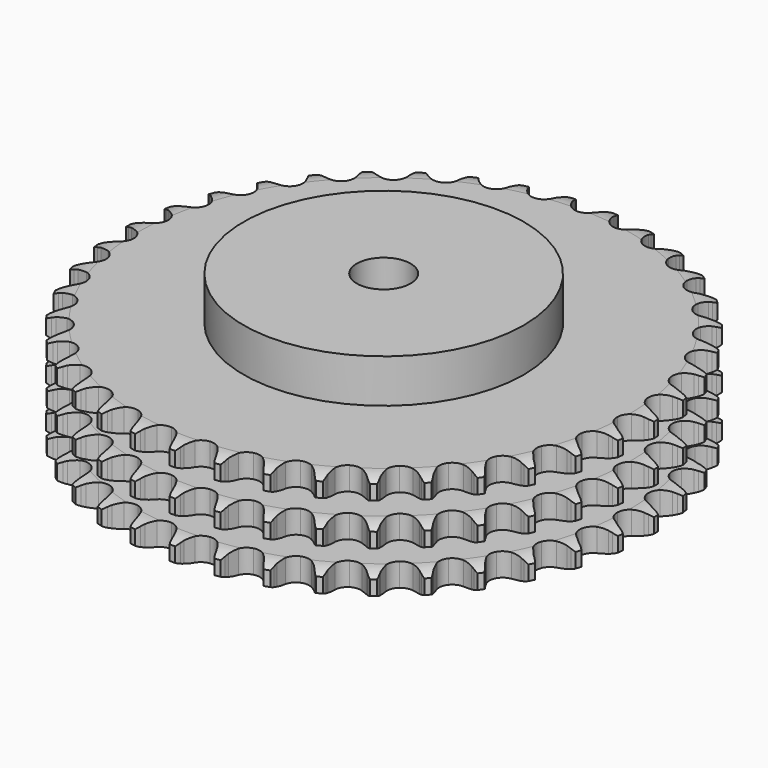
from build123d import *

# Parameters (mm, degrees)
PAD_DEPTH         = 49.8
SKETCH001_R       = 65
PAD001_DEPTH      = 70
SKETCH002_R       = 12.5
POCKET_DEPTH      = 0.001
POCKET_DEPTH_BACK = 70.001


with BuildPart() as part:
    # Sprocket → Pad (new body)
    with BuildSketch(Plane.XY):
        with BuildLine():
            ThreePointArc((-10.012439, 124.026308), (-8.619754, 122.325503), (-7.64164, 120.35685))
            Line((-7.64164, 120.35685), (-7.053101, 118.737597))
            ThreePointArc((-7.053101, 118.737597), (-6.12318, 116.660231), (-4.903721, 114.738481))
            ThreePointArc((-4.903721, 114.738481), (-2.745245, 112.921123), (0, 112.268866))
            ThreePointArc((0, 112.268866), (2.745245, 112.921123), (4.903721, 114.738481))
            ThreePointArc((4.903721, 114.738481), (6.12318, 116.660231), (7.053101, 118.737597))
            Line((7.053101, 118.737597), (7.64164, 120.35685))
            ThreePointArc((7.64164, 120.35685), (8.619754, 122.325503), (10.012439, 124.026308))
            ThreePointArc((10.012439, 124.026308), (11.11426, 122.124126), (11.763914, 120.024066))
            Line((11.763914, 120.024066), (12.085085, 118.331373))
            ThreePointArc((12.085085, 118.331373), (12.66973, 116.131739), (13.565127, 114.03926))
            ThreePointArc((13.565127, 114.03926), (15.404127, 111.899192), (18.009193, 110.815013))
            ThreePointArc((18.009193, 110.815013), (20.823517, 111.018456), (23.245566, 112.466036))
            Line((23.245566, 112.466036), (26.008615, 116.06858))
            ThreePointArc((26.008615, 116.06858), (26.40838, 116.832014), (26.849279, 117.572455))
            ThreePointArc((26.849279, 117.572455), (28.130521, 119.358715), (29.777999, 120.814091))
            ThreePointArc((29.777999, 120.814091), (30.560421, 118.759798), (30.864788, 116.582721))
            Line((30.864788, 116.582721), (30.910274, 114.860429))
            ThreePointArc((30.910274, 114.860429), (31.134502, 112.595496), (31.682646, 110.386482))
            ThreePointArc((31.682646, 110.386482), (33.15454, 107.979131), (35.551956, 106.49111))
            ThreePointArc((35.551956, 106.49111), (38.362471, 106.240469), (40.985363, 107.280779))
            Line((40.985363, 107.280779), (44.29052, 110.393447))
            ThreePointArc((44.29052, 110.393447), (44.807571, 111.082868), (45.361536, 111.742995))
            ThreePointArc((45.361536, 111.742995), (46.912723, 113.300598), (48.772325, 114.472854))
            ThreePointArc((48.772325, 114.472854), (49.215083, 112.319654), (49.166281, 110.121945))
            Line((49.166281, 110.121945), (48.934902, 108.41466))
            ThreePointArc((48.934902, 108.41466), (48.792906, 106.143088), (48.979601, 103.874752))
            ThreePointArc((48.979601, 103.874752), (50.046269, 101.262468), (52.173943, 99.409144))
            ThreePointArc((52.173943, 99.409144), (54.907856, 98.71091), (57.663661, 99.317007))
            Line((57.663661, 99.317007), (61.425323, 101.859182))
            ThreePointArc((61.425323, 101.859182), (62.04627, 102.456734), (62.698953, 103.019451))
            ThreePointArc((62.698953, 103.019451), (64.479909, 104.308055), (66.503473, 105.166829))
            ThreePointArc((66.503473, 105.166829), (66.5951, 102.970489), (66.194393, 100.809069))
            Line((66.194393, 100.809069), (65.692143, 99.161008))
            ThreePointArc((65.692143, 99.161008), (65.187599, 96.941631), (65.00801, 94.672721))
            ThreePointArc((65.00801, 94.672721), (65.641825, 91.923159), (67.444653, 89.752532))
            ThreePointArc((67.444653, 89.752532), (70.031157, 88.62479), (72.8485, 88.780976))
            Line((72.8485, 88.780976), (76.969243, 90.686817))
            ThreePointArc((76.969243, 90.686817), (77.678003, 91.177025), (78.4125, 91.627757))
            ThreePointArc((78.4125, 91.627757), (80.3771, 92.613988), (82.512216, 93.137039))
            ThreePointArc((82.512216, 93.137039), (82.250339, 90.954443), (81.508105, 88.88529))
            Line((81.508105, 88.88529), (80.747991, 87.339139))
            ThreePointArc((80.747991, 87.339139), (79.893968, 85.229436), (79.352746, 83.018716))
            ThreePointArc((79.352746, 83.018716), (79.537292, 80.203089), (80.968581, 77.771377))
            ThreePointArc((80.968581, 77.771377), (83.340688, 76.243334), (86.146601, 75.945564))
            Line((86.146601, 75.945564), (90.5197, 77.165712))
            ThreePointArc((90.5197, 77.165712), (91.297917, 77.535878), (92.095205, 77.862952))
            ThreePointArc((92.095205, 77.862952), (94.192566, 78.521268), (96.383937, 78.695049))
            ThreePointArc((96.383937, 78.695049), (95.775337, 76.582725), (94.710799, 74.65943))
            Line((94.710799, 74.65943), (93.712509, 73.255231))
            ThreePointArc((93.712509, 73.255231), (92.531125, 71.309843), (91.642288, 69.21457))
            ThreePointArc((91.642288, 69.21457), (91.372785, 66.405802), (92.395465, 63.775985))
            ThreePointArc((92.395465, 63.775985), (94.491739, 61.887217), (97.21355, 61.143203))
            Line((97.21355, 61.143203), (101.725744, 61.646055))
            ThreePointArc((101.725744, 61.646055), (102.553263, 61.886593), (103.392692, 62.081537))
            ThreePointArc((103.392692, 62.081537), (105.568494, 62.394888), (107.759364, 62.214898))
            ThreePointArc((107.759364, 62.214898), (106.819805, 60.227554), (105.460534, 58.499929))
            Line((105.460534, 58.499929), (104.249922, 57.274051))
            ThreePointArc((104.249922, 57.274051), (102.771775, 55.543363), (101.558342, 53.617803))
            ThreePointArc((101.558342, 53.617803), (100.841771, 50.888638), (101.429356, 48.128828))
            ThreePointArc((101.429356, 48.128828), (103.195504, 45.928253), (105.76272, 44.757264))
            Line((105.76272, 44.757264), (110.297145, 44.529798))
            ThreePointArc((110.297145, 44.529798), (111.152532, 44.634478), (112.012362, 44.692243))
            ThreePointArc((112.012362, 44.692243), (114.210254, 44.652513), (116.34388, 44.123413))
            ThreePointArc((116.34388, 44.123413), (115.097695, 42.312521), (113.478897, 40.825311))
            Line((113.478897, 40.825311), (112.087317, 39.809504))
            ThreePointArc((112.087317, 39.809504), (110.350689, 38.338339), (108.844088, 36.632362))
            ThreePointArc((108.844088, 36.632362), (107.699009, 34.053486), (107.836279, 31.235159))
            ThreePointArc((107.836279, 31.235159), (109.226559, 28.779771), (111.57269, 27.212136))
            Line((111.57269, 27.212136), (116.011908, 26.260242))
            ThreePointArc((116.011908, 26.260242), (116.87301, 26.226353), (117.730972, 26.145444))
            ThreePointArc((117.730972, 26.145444), (119.894028, 25.753661), (121.91515, 24.889156))
            ThreePointArc((121.91515, 24.889156), (120.394616, 23.301617), (118.558215, 22.093339))
            Line((118.558215, 22.093339), (117.021709, 21.313911))
            ThreePointArc((117.021709, 21.313911), (115.071579, 20.140372), (113.31083, 18.698163))
            ThreePointArc((113.31083, 18.698163), (111.766898, 16.336367), (111.450299, 13.532516))
            ThreePointArc((111.450299, 13.532516), (112.428704, 10.885908), (114.492987, 8.962228))
            Line((114.492987, 8.962228), (118.722024, 7.31056))
            ThreePointArc((118.722024, 7.31056), (119.566538, 7.138979), (120.400411, 6.921491))
            ThreePointArc((120.400411, 6.921491), (122.472609, 6.187804), (124.328882, 5.010283))
            ThreePointArc((124.328882, 5.010283), (122.57338, 3.687212), (120.566938, 2.789161))
            Line((120.566938, 2.789161), (118.9253, 2.266299))
            ThreePointArc((118.9253, 2.266299), (116.812175, 1.42078), (114.842881, 0.279692))
            ThreePointArc((114.842881, 0.279692), (112.940084, -1.803856), (112.177816, -4.520611))
            ThreePointArc((112.177816, -4.520611), (112.719004, -7.289894), (114.447975, -9.519797))
            Line((114.447975, -9.519797), (118.357301, -11.828461))
            ThreePointArc((118.357301, -11.828461), (119.163356, -12.13329), (119.951542, -12.481724))
            ThreePointArc((119.951542, -12.481724), (121.879215, -13.538315), (123.522562, -14.998354))
            ThreePointArc((123.522562, -14.998354), (121.577557, -16.022689), (119.453041, -16.587255))
            Line((119.453041, -16.587255), (117.748789, -16.840008))
            ThreePointArc((117.748789, -16.840008), (115.527397, -17.335609), (113.400562, -18.146024))
            ThreePointArc((113.400562, -18.146024), (111.18818, -19.89736), (109.999985, -22.456658))
            ThreePointArc((109.999985, -22.456658), (110.089941, -25.276891), (111.438821, -27.755265))
            Line((111.438821, -27.755265), (114.927186, -30.661132))
            ThreePointArc((114.927186, -30.661132), (115.673905, -31.091314), (116.395992, -31.56167))
            ThreePointArc((116.395992, -31.56167), (118.129213, -32.913798), (119.517072, -34.618542))
            ThreePointArc((119.517072, -34.618542), (117.43294, -35.317611), (115.245372, -35.53407))
            Line((115.245372, -35.53407), (113.522646, -35.510169))
            ThreePointArc((113.522646, -35.510169), (111.25052, -35.643015), (109.021227, -36.101767))
            ThreePointArc((109.021227, -36.101767), (106.556561, -37.475533), (104.973213, -39.811088))
            ThreePointArc((104.973213, -39.811088), (104.609607, -42.609231), (105.54346, -45.271885))
            Line((105.54346, -45.271885), (108.520518, -48.699696))
            ThreePointArc((108.520518, -48.699696), (109.188561, -49.244089), (109.825847, -49.824185))
            ThreePointArc((109.825847, -49.824185), (111.319726, -51.436832), (112.416152, -53.342128))
            ThreePointArc((112.416152, -53.342128), (110.246871, -53.697826), (108.052909, -53.560571))
            Line((108.052909, -53.560571), (106.356326, -53.260634))
            ThreePointArc((106.356326, -53.260634), (104.092314, -53.027286), (101.8183, -53.122493))
            ThreePointArc((101.8183, -53.122493), (99.165184, -54.083109), (97.22769, -56.134433))
            ThreePointArc((97.22769, -56.134433), (96.419939, -58.838014), (96.914579, -61.615988))
            Line((96.914579, -61.615988), (99.303225, -65.476963))
            ThreePointArc((99.303225, -65.476963), (99.87529, -66.121467), (100.41127, -66.796279))
            ThreePointArc((100.41127, -66.796279), (101.627116, -68.627678), (102.403714, -70.68418))
            ThreePointArc((102.403714, -70.68418), (100.205466, -70.687295), (98.061933, -70.199881))
            Line((98.061933, -70.199881), (96.435433, -69.631678))
            ThreePointArc((96.435433, -69.631678), (94.238171, -69.038178), (91.978333, -68.767375))
            ThreePointArc((91.978333, -68.767375), (89.20548, -69.289962), (86.96402, -71.003925))
            ThreePointArc((86.96402, -71.003925), (85.733045, -73.542923), (85.775661, -76.364269))
            Line((85.775661, -76.364269), (87.514031, -80.558411))
            ThreePointArc((87.514031, -80.558411), (87.975302, -81.286335), (88.396093, -82.038385))
            ThreePointArc((88.396093, -82.038385), (89.302418, -84.041103), (89.739073, -86.195549))
            ThreePointArc((89.739073, -86.195549), (87.568792, -85.846), (85.531204, -85.021051))
            Line((85.531204, -85.021051), (84.016913, -84.199297))
            ThreePointArc((84.016913, -84.199297), (81.943309, -83.261017), (79.756175, -82.631218))
            ThreePointArc((79.756175, -82.631218), (76.935401, -82.70224), (74.448029, -84.034453))
            ThreePointArc((74.448029, -84.034453), (72.82571, -86.343109), (72.415198, -89.134755))
            Line((72.415198, -89.134755), (73.458269, -93.553438))
            ThreePointArc((73.458269, -93.553438), (73.7968, -94.345929), (74.091505, -95.15574))
            ThreePointArc((74.091505, -95.15574), (74.664834, -97.277908), (74.750237, -99.474499))
            ThreePointArc((74.750237, -99.474499), (72.664132, -98.781339), (70.785261, -97.640221))
            Line((70.785261, -97.640221), (69.422399, -96.586199))
            ThreePointArc((69.422399, -96.586199), (67.526158, -95.32744), (65.468374, -94.354955))
            ThreePointArc((65.468374, -94.354955), (62.672735, -93.972574), (60.003872, -94.888532))
            ThreePointArc((60.003872, -94.888532), (58.032227, -96.907053), (57.17922, -99.596698))
            Line((57.17922, -99.596698), (57.499977, -104.125481))
            ThreePointArc((57.499977, -104.125481), (57.706999, -104.962013), (57.867985, -105.808612))
            ThreePointArc((57.867985, -105.808612), (58.093471, -107.995267), (57.825409, -110.177112))
            ThreePointArc((57.825409, -110.177112), (55.87751, -109.158293), (54.206018, -107.73056))
            Line((54.206018, -107.73056), (53.029881, -106.471569))
            ThreePointArc((53.029881, -106.471569), (51.360115, -104.924932), (49.484976, -103.634949))
            ThreePointArc((49.484976, -103.634949), (46.786879, -102.809067), (44.005647, -103.285049))
            ThreePointArc((44.005647, -103.285049), (41.735741, -104.961156), (40.462331, -107.479139))
            Line((40.462331, -107.479139), (40.052466, -112.000728))
            ThreePointArc((40.052466, -112.000728), (40.122618, -112.859637), (40.145715, -113.721095))
            ThreePointArc((40.145715, -113.721095), (40.017516, -115.915604), (39.402934, -118.026195))
            ThreePointArc((39.402934, -118.026195), (37.643689, -116.708104), (36.222867, -115.030734))
            Line((36.222867, -115.030734), (35.263917, -113.599381))
            ThreePointArc((35.263917, -113.599381), (33.863872, -111.804924), (32.219944, -110.230852))
            ThreePointArc((32.219944, -110.230852), (29.689267, -108.98286), (26.867698, -109.006537))
            ThreePointArc((26.867698, -109.006537), (24.35832, -110.296821), (22.697488, -112.577927))
            Line((22.697488, -112.577927), (21.567617, -116.975216))
            ThreePointArc((21.567617, -116.975216), (21.499082, -117.834255), (21.383692, -118.688263))
            ThreePointArc((21.383692, -118.688263), (20.905129, -120.833789), (19.959943, -122.818462))
            ThreePointArc((19.959943, -122.818462), (18.434917, -121.235238), (17.301563, -119.351673))
            Line((17.301563, -119.351673), (16.584637, -117.785029))
            ThreePointArc((16.584637, -117.785029), (15.490573, -115.789226), (14.120432, -113.971834))
            ThreePointArc((14.120432, -113.971834), (11.822718, -112.334054), (9.03389, -111.904812))
            ThreePointArc((9.03389, -111.904812), (6.350032, -112.775855), (4.344792, -114.761005))
            Line((4.344792, -114.761005), (2.524178, -118.920106))
            ThreePointArc((2.524178, -118.920106), (2.318731, -119.757027), (2.067842, -120.581466))
            ThreePointArc((2.067842, -120.581466), (1.251311, -122.622442), (0, -124.429795))
            ThreePointArc((0, -124.429795), (-1.251311, -122.622442), (-2.067842, -120.581466))
            Line((-2.067842, -120.581466), (-2.524178, -118.920106))
            ThreePointArc((-2.524178, -118.920106), (-3.283924, -116.774649), (-4.344792, -114.761005))
            ThreePointArc((-4.344792, -114.761005), (-6.350032, -112.775855), (-9.03389, -111.904812))
            ThreePointArc((-9.03389, -111.904812), (-11.822718, -112.334054), (-14.120432, -113.971834))
            Line((-14.120432, -113.971834), (-16.584637, -117.785029))
            ThreePointArc((-16.584637, -117.785029), (-16.921675, -118.578156), (-17.301563, -119.351673))
            ThreePointArc((-17.301563, -119.351673), (-18.434917, -121.235238), (-19.959943, -122.818462))
            ThreePointArc((-19.959943, -122.818462), (-20.905129, -120.833789), (-21.383692, -118.688263))
            Line((-21.383692, -118.688263), (-21.567617, -116.975216))
            ThreePointArc((-21.567617, -116.975216), (-21.973369, -114.73567), (-22.697488, -112.577927))
            ThreePointArc((-22.697488, -112.577927), (-24.35832, -110.296821), (-26.867698, -109.006537))
            ThreePointArc((-26.867698, -109.006537), (-29.689267, -108.98286), (-32.219944, -110.230852))
            Line((-32.219944, -110.230852), (-35.263917, -113.599381))
            ThreePointArc((-35.263917, -113.599381), (-35.723817, -114.328172), (-36.222867, -115.030734))
            ThreePointArc((-36.222867, -115.030734), (-37.643689, -116.708104), (-39.402934, -118.026195))
            ThreePointArc((-39.402934, -118.026195), (-40.017516, -115.915604), (-40.145715, -113.721095))
            Line((-40.145715, -113.721095), (-40.052466, -112.000728))
            ThreePointArc((-40.052466, -112.000728), (-40.093715, -109.725097), (-40.462331, -107.479139))
            ThreePointArc((-40.462331, -107.479139), (-41.735741, -104.961156), (-44.005647, -103.285049))
            ThreePointArc((-44.005647, -103.285049), (-46.786879, -102.809067), (-49.484976, -103.634949))
            Line((-49.484976, -103.634949), (-53.029881, -106.471569))
            ThreePointArc((-53.029881, -106.471569), (-53.600732, -107.117149), (-54.206018, -107.73056))
            ThreePointArc((-54.206018, -107.73056), (-55.87751, -109.158293), (-57.825409, -110.177112))
            ThreePointArc((-57.825409, -110.177112), (-58.093471, -107.995267), (-57.867985, -105.808612))
            Line((-57.867985, -105.808612), (-57.499977, -104.125481))
            ThreePointArc((-57.499977, -104.125481), (-57.175655, -101.872701), (-57.17922, -99.596698))
            ThreePointArc((-57.17922, -99.596698), (-58.032227, -96.907053), (-60.003872, -94.888532))
            ThreePointArc((-60.003872, -94.888532), (-62.672735, -93.972574), (-65.468374, -94.354955))
            Line((-65.468374, -94.354955), (-69.422399, -96.586199))
            ThreePointArc((-69.422399, -96.586199), (-70.089415, -97.131848), (-70.785261, -97.640221))
            ThreePointArc((-70.785261, -97.640221), (-72.664132, -98.781339), (-74.750237, -99.474499))
            ThreePointArc((-74.750237, -99.474499), (-74.664834, -97.277908), (-74.091505, -95.15574))
            Line((-74.091505, -95.15574), (-73.458269, -93.553438))
            ThreePointArc((-73.458269, -93.553438), (-72.776776, -91.381856), (-72.415198, -89.134755))
            ThreePointArc((-72.415198, -89.134755), (-72.82571, -86.343109), (-74.448029, -84.034453))
            ThreePointArc((-74.448029, -84.034453), (-76.935401, -82.70224), (-79.756175, -82.631218))
            Line((-79.756175, -82.631218), (-84.016913, -84.199297))
            ThreePointArc((-84.016913, -84.199297), (-84.76282, -84.630883), (-85.531204, -85.021051))
            ThreePointArc((-85.531204, -85.021051), (-87.568792, -85.846), (-89.739073, -86.195549))
            ThreePointArc((-89.739073, -86.195549), (-89.302418, -84.041103), (-88.396093, -82.038385))
            Line((-88.396093, -82.038385), (-87.514031, -80.558411))
            ThreePointArc((-87.514031, -80.558411), (-86.493017, -78.524269), (-85.775661, -76.364269))
            ThreePointArc((-85.775661, -76.364269), (-85.733045, -73.542923), (-86.96402, -71.003925))
            ThreePointArc((-86.96402, -71.003925), (-89.20548, -69.289962), (-91.978333, -68.767375))
            Line((-91.978333, -68.767375), (-96.435433, -69.631678))
            ThreePointArc((-96.435433, -69.631678), (-97.240912, -69.938023), (-98.061933, -70.199881))
            ThreePointArc((-98.061933, -70.199881), (-100.205466, -70.687295), (-102.403714, -70.68418))
            ThreePointArc((-102.403714, -70.68418), (-101.627116, -68.627678), (-100.41127, -66.796279))
            Line((-100.41127, -66.796279), (-99.303225, -65.476963))
            ThreePointArc((-99.303225, -65.476963), (-97.969133, -63.632945), (-96.914579, -61.615988))
            ThreePointArc((-96.914579, -61.615988), (-96.419939, -58.838014), (-97.22769, -56.134433))
            ThreePointArc((-97.22769, -56.134433), (-99.165184, -54.083109), (-101.8183, -53.122493))
            Line((-101.8183, -53.122493), (-106.356326, -53.260634))
            ThreePointArc((-106.356326, -53.260634), (-107.200516, -53.433805), (-108.052909, -53.560571))
            ThreePointArc((-108.052909, -53.560571), (-110.246871, -53.697826), (-112.416152, -53.342128))
            ThreePointArc((-112.416152, -53.342128), (-111.319726, -51.436832), (-109.825847, -49.824185))
            Line((-109.825847, -49.824185), (-108.520518, -48.699696))
            ThreePointArc((-108.520518, -48.699696), (-106.907901, -47.093561), (-105.54346, -45.271885))
            ThreePointArc((-105.54346, -45.271885), (-104.609607, -42.609231), (-104.973213, -39.811088))
            ThreePointArc((-104.973213, -39.811088), (-106.556561, -37.475533), (-109.021227, -36.101767))
            Line((-109.021227, -36.101767), (-113.522646, -35.510169))
            ThreePointArc((-113.522646, -35.510169), (-114.383682, -35.545679), (-115.245372, -35.53407))
            ThreePointArc((-115.245372, -35.53407), (-117.43294, -35.317611), (-119.517072, -34.618542))
            ThreePointArc((-119.517072, -34.618542), (-118.129213, -32.913798), (-116.395992, -31.56167))
            Line((-116.395992, -31.56167), (-114.927186, -30.661132))
            ThreePointArc((-114.927186, -30.661132), (-113.07781, -29.334478), (-111.438821, -27.755265))
            ThreePointArc((-111.438821, -27.755265), (-110.089941, -25.276891), (-109.999985, -22.456658))
            ThreePointArc((-109.999985, -22.456658), (-111.18818, -19.89736), (-113.400562, -18.146024))
            Line((-113.400562, -18.146024), (-117.748789, -16.840008))
            ThreePointArc((-117.748789, -16.840008), (-118.604372, -16.736939), (-119.453041, -16.587255))
            ThreePointArc((-119.453041, -16.587255), (-121.577557, -16.022689), (-123.522562, -14.998354))
            ThreePointArc((-123.522562, -14.998354), (-121.879215, -13.538315), (-119.951542, -12.481724))
            Line((-119.951542, -12.481724), (-118.357301, -11.828461))
            ThreePointArc((-118.357301, -11.828461), (-116.319064, -10.815648), (-114.447975, -9.519797))
            ThreePointArc((-114.447975, -9.519797), (-112.719004, -7.289894), (-112.177816, -4.520611))
            ThreePointArc((-112.177816, -4.520611), (-112.940084, -1.803856), (-114.842881, 0.279692))
            Line((-114.842881, 0.279692), (-118.9253, 2.266299))
            ThreePointArc((-118.9253, 2.266299), (-119.75327, 2.505279), (-120.566938, 2.789161))
            ThreePointArc((-120.566938, 2.789161), (-122.57338, 3.687212), (-124.328882, 5.010283))
            ThreePointArc((-124.328882, 5.010283), (-122.472609, 6.187804), (-120.400411, 6.921491))
            Line((-120.400411, 6.921491), (-118.722024, 7.31056))
            ThreePointArc((-118.722024, 7.31056), (-116.547714, 7.983302), (-114.492987, 8.962228))
            ThreePointArc((-114.492987, 8.962228), (-112.428704, 10.885908), (-111.450299, 13.532516))
            ThreePointArc((-111.450299, 13.532516), (-111.766898, 16.336367), (-113.31083, 18.698163))
            Line((-113.31083, 18.698163), (-117.021709, 21.313911))
            ThreePointArc((-117.021709, 21.313911), (-117.800621, 21.682612), (-118.558215, 22.093339))
            ThreePointArc((-118.558215, 22.093339), (-120.394616, 23.301617), (-121.91515, 24.889156))
            ThreePointArc((-121.91515, 24.889156), (-119.894028, 25.753661), (-117.730972, 26.145444))
            Line((-117.730972, 26.145444), (-116.011908, 26.260242))
            ThreePointArc((-116.011908, 26.260242), (-113.75784, 26.575488), (-111.57269, 27.212136))
            ThreePointArc((-111.57269, 27.212136), (-109.226559, 28.779771), (-107.836279, 31.235159))
            ThreePointArc((-107.836279, 31.235159), (-107.699009, 34.053486), (-108.844088, 36.632362))
            Line((-108.844088, 36.632362), (-112.087317, 39.809504))
            ThreePointArc((-112.087317, 39.809504), (-112.796999, 40.298376), (-113.478897, 40.825311))
            ThreePointArc((-113.478897, 40.825311), (-115.097695, 42.312521), (-116.34388, 44.123413))
            ThreePointArc((-116.34388, 44.123413), (-114.210254, 44.652513), (-112.012362, 44.692243))
            Line((-112.012362, 44.692243), (-110.297145, 44.529798))
            ThreePointArc((-110.297145, 44.529798), (-108.021698, 44.479383), (-105.76272, 44.757264))
            ThreePointArc((-105.76272, 44.757264), (-103.195504, 45.928253), (-101.429356, 48.128828))
            ThreePointArc((-101.429356, 48.128828), (-100.841771, 50.888638), (-101.558342, 53.617803))
            Line((-101.558342, 53.617803), (-104.249922, 57.274051))
            ThreePointArc((-104.249922, 57.274051), (-104.871993, 57.870434), (-105.460534, 58.499929))
            ThreePointArc((-105.460534, 58.499929), (-106.819805, 60.227554), (-107.759364, 62.214898))
            ThreePointArc((-107.759364, 62.214898), (-105.568494, 62.394888), (-103.392692, 62.081537))
            Line((-103.392692, 62.081537), (-101.725744, 61.646055))
            ThreePointArc((-101.725744, 61.646055), (-99.487851, 61.231286), (-97.21355, 61.143203))
            ThreePointArc((-97.21355, 61.143203), (-94.491739, 61.887217), (-92.395465, 63.775985))
            ThreePointArc((-92.395465, 63.775985), (-91.372785, 66.405802), (-91.642288, 69.21457))
            Line((-91.642288, 69.21457), (-93.712509, 73.255231))
            ThreePointArc((-93.712509, 73.255231), (-94.230858, 73.943678), (-94.710799, 74.65943))
            ThreePointArc((-94.710799, 74.65943), (-95.775337, 76.582725), (-96.383937, 78.695049))
            ThreePointArc((-96.383937, 78.695049), (-94.192566, 78.521268), (-92.095205, 77.862952))
            Line((-92.095205, 77.862952), (-90.5197, 77.165712))
            ThreePointArc((-90.5197, 77.165712), (-88.37732, 76.39733), (-86.146601, 75.945564))
            ThreePointArc((-86.146601, 75.945564), (-83.340688, 76.243334), (-80.968581, 77.771377))
            ThreePointArc((-80.968581, 77.771377), (-79.537292, 80.203089), (-79.352746, 83.018716))
            Line((-79.352746, 83.018716), (-80.747991, 87.339139))
            ThreePointArc((-80.747991, 87.339139), (-81.149193, 88.101819), (-81.508105, 88.88529))
            ThreePointArc((-81.508105, 88.88529), (-82.250339, 90.954443), (-82.512216, 93.137039))
            ThreePointArc((-82.512216, 93.137039), (-80.3771, 92.613988), (-78.4125, 91.627757))
            Line((-78.4125, 91.627757), (-76.969243, 90.686817))
            ThreePointArc((-76.969243, 90.686817), (-74.977863, 89.584724), (-72.8485, 88.780976))
            ThreePointArc((-72.8485, 88.780976), (-70.031157, 88.62479), (-67.444653, 89.752532))
            ThreePointArc((-67.444653, 89.752532), (-65.641825, 91.923159), (-65.00801, 94.672721))
            Line((-65.00801, 94.672721), (-65.692143, 99.161008))
            ThreePointArc((-65.692143, 99.161008), (-65.965807, 99.97817), (-66.194393, 100.809069))
            ThreePointArc((-66.194393, 100.809069), (-66.5951, 102.970489), (-66.503473, 105.166829))
            ThreePointArc((-66.503473, 105.166829), (-64.479909, 104.308055), (-62.698953, 103.019451))
            Line((-62.698953, 103.019451), (-61.425323, 101.859182))
            ThreePointArc((-61.425323, 101.859182), (-59.636519, 100.451921), (-57.663661, 99.317007))
            ThreePointArc((-57.663661, 99.317007), (-54.907856, 98.71091), (-52.173943, 99.409144))
            ThreePointArc((-52.173943, 99.409144), (-50.046269, 101.262468), (-48.979601, 103.874752))
            Line((-48.979601, 103.874752), (-48.934902, 108.41466))
            ThreePointArc((-48.934902, 108.41466), (-49.07394, 109.265138), (-49.166281, 110.121945))
            ThreePointArc((-49.166281, 110.121945), (-49.215083, 112.319654), (-48.772325, 114.472854))
            ThreePointArc((-48.772325, 114.472854), (-46.912723, 113.300598), (-45.361536, 111.742995))
            Line((-45.361536, 111.742995), (-44.29052, 110.393447))
            ThreePointArc((-44.29052, 110.393447), (-42.750621, 108.717465), (-40.985363, 107.280779))
            ThreePointArc((-40.985363, 107.280779), (-38.362471, 106.240469), (-35.551956, 106.49111))
            ThreePointArc((-35.551956, 106.49111), (-33.15454, 107.979131), (-31.682646, 110.386482))
            Line((-31.682646, 110.386482), (-30.910274, 114.860429))
            ThreePointArc((-30.910274, 114.860429), (-30.911085, 115.722197), (-30.864788, 116.582721))
            ThreePointArc((-30.864788, 116.582721), (-30.560421, 118.759798), (-29.777999, 120.814091))
            ThreePointArc((-29.777999, 120.814091), (-28.130521, 119.358715), (-26.849279, 117.572455))
            Line((-26.849279, 117.572455), (-26.008615, 116.06858))
            ThreePointArc((-26.008615, 116.06858), (-24.757504, 114.167284), (-23.245566, 112.466036))
            ThreePointArc((-23.245566, 112.466036), (-20.823517, 111.018456), (-18.009193, 110.815013))
            ThreePointArc((-18.009193, 110.815013), (-15.404127, 111.899192), (-13.565127, 114.03926))
            Line((-13.565127, 114.03926), (-12.085085, 118.331373))
            ThreePointArc((-12.085085, 118.331373), (-11.947649, 119.182112), (-11.763914, 120.024066))
            ThreePointArc((-11.763914, 120.024066), (-11.11426, 122.124126), (-10.012439, 124.026308))
        make_face()
    extrude(amount=PAD_DEPTH)

    # Sketch → Groove (revolve, cut)
    with BuildSketch(Plane.XZ):
        with BuildLine():
            ThreePointArc((114.064719, 0), (118.423618, 0.506758), (122.55, 2))
            Line((122.55, 2), (122.55, 8.8))
            ThreePointArc((122.55, 8.8), (118.423618, 10.293242), (114.064719, 10.8))
            Line((65, 10.8), (114.064719, 10.8))
            Line((65, 10.8), (65, 19.5))
            Line((65, 19.5), (114.064719, 19.5))
            ThreePointArc((114.064719, 19.5), (118.423618, 20.006758), (122.55, 21.5))
            Line((122.55, 28.3), (122.55, 21.5))
            ThreePointArc((122.55, 28.3), (118.423618, 29.793242), (114.064719, 30.3))
            Line((65, 30.3), (114.064719, 30.3))
            Line((65, 39), (65, 30.3))
            Line((114.064719, 39), (65, 39))
            ThreePointArc((114.064719, 39), (118.423618, 39.506758), (122.55, 41))
            Line((122.55, 41), (122.55, 47.8))
            ThreePointArc((122.55, 47.8), (118.423618, 49.293242), (114.064719, 49.8))
            Line((114.064719, 49.8), (132.55, 49.8))
            Line((132.55, 49.8), (132.55, 0))
            Line((114.064719, 0), (132.55, 0))
        make_face()
    revolve(axis=Axis((0, 0, 0), (0, 0, 1)), mode=Mode.SUBTRACT)

    # Sketch001 → Pad001 (join)
    with BuildSketch(Plane.XY):
        Circle(SKETCH001_R)
    extrude(amount=PAD001_DEPTH)

    # Sketch002 → Pocket (cut, two sides)
    with BuildSketch(Plane.XY) as pocket_sk:
        Circle(SKETCH002_R)
    extrude(amount=-POCKET_DEPTH, mode=Mode.SUBTRACT)
    extrude(pocket_sk.sketch, amount=POCKET_DEPTH_BACK, mode=Mode.SUBTRACT)


solid = part.part
